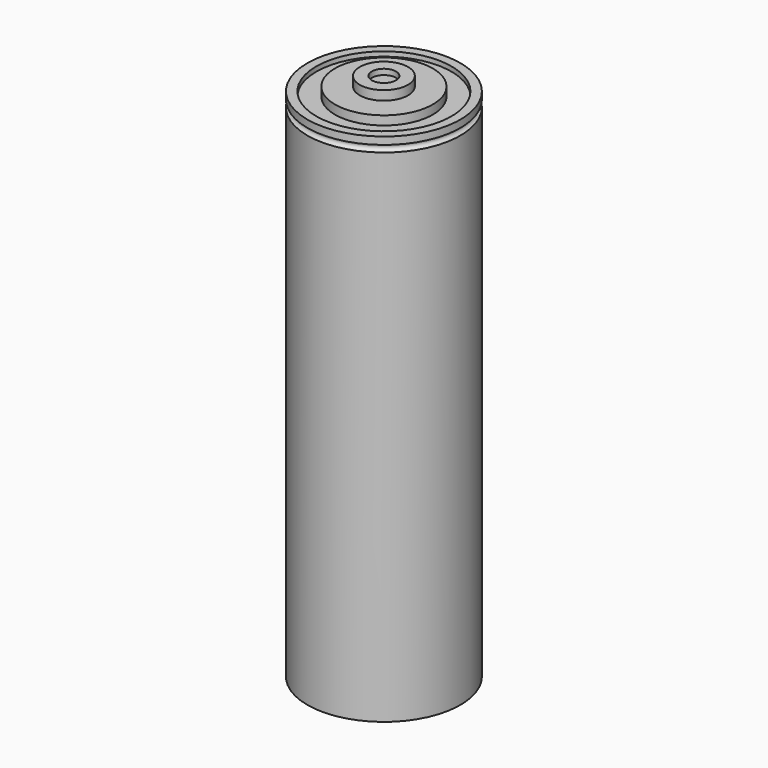
from build123d import *


with BuildPart() as f1:
    # F0 (on Front) → F1 (revolve)
    with BuildSketch(Plane.XZ):
        with BuildLine():
            Line((489.550671, 7.579802), (489.550671, 8.969648))
            Line((489.550671, 8.969648), (486.550671, 8.969648))
            Line((486.550671, 8.969648), (486.550671, 6.658985))
            Line((486.550671, 6.658985), (480.40905, 6.658985))
            Line((480.40905, 6.658985), (480.40905, 4.440768))
            Line((480.40905, 4.440768), (475.766086, 4.440768))
            Line((475.766086, 4.440768), (475.766086, 5.595956))
            Line((475.766086, 5.595956), (473.550671, 5.595956))
            Line((473.550671, 5.595956), (473.550671, 3.76596))
            ThreePointArc((473.550671, 3.76596), (474.384093, 2.932538), (473.550671, 2.099116))
            Line((473.550671, 2.099116), (473.550671, -122.362282))
            Line((473.550671, -122.362282), (476.530877, -122.362282))
            Line((476.530877, -122.362282), (476.530877, -123.194333))
            Line((476.530877, -123.194333), (486.550671, -124.833937))
            Line((486.550671, -124.833937), (486.550671, -126.030352))
            Line((486.550671, -126.030352), (489.550671, -126.030352))
            Line((489.550671, -126.030352), (489.550671, -122.861977))
            Line((489.550671, -122.861977), (492.550671, -122.861977))
            Line((492.550671, -122.861977), (492.550671, 7.579802))
            Line((492.550671, 7.579802), (489.550671, 7.579802))
        make_face()
    revolve(axis=Axis((492.550671, 0, -54.35379), (0, 0, -1)))


solid = f1.part
